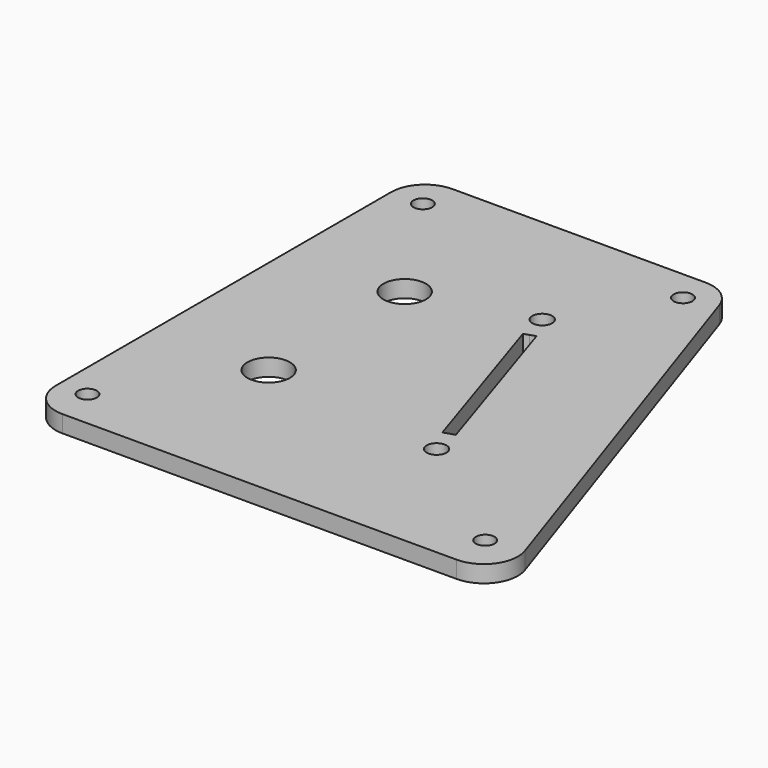
from build123d import *

# Parameters (mm, degrees)
PAD004_DEPTH    = 3
FILLET016_R     = 6
SKETCH144_R     = 3.75
POCKET031_DEPTH = 5
SKETCH145_R     = 1.75
POCKET058_DEPTH = 3
SKETCH191_R     = 1.65
POCKET060_DEPTH = 3


with BuildPart() as part:
    # Sketch143 → Pad004 (new body)
    with BuildSketch(Plane.XY.offset(45)):
        Polygon((282.000003, 258), (337, 258), (365.924584, 172), (282.000003, 172), align=None)
    extrude(amount=PAD004_DEPTH)

    # Fillet016
    fillet016_edges = [part.edges().sort_by_distance(p)[0] for p in [
        (365.924584, 172, 46.5),
        (282.000003, 172, 46.5),
        (282.000003, 258, 46.5),
        (337, 258, 46.5),
    ]]
    fillet(fillet016_edges, radius=FILLET016_R)

    # Sketch144 (on Face5 of Fillet016) → Pocket031 (cut)
    with BuildSketch(Plane.XY.offset(48)):
        with Locations((302, 230)):
            Circle(SKETCH144_R)
        with Locations((302.000005, 200.000003)):
            Circle(SKETCH144_R)
    extrude(amount=-POCKET031_DEPTH, mode=Mode.SUBTRACT)

    # Sketch145 (on Face5 of Pocket031) → Pocket058 (cut)
    with BuildSketch(Plane.XY.offset(48)):
        with Locations((322.023093, 235.313475)):
            Circle(SKETCH145_R)
        with Locations((334.779262, 196.053817)):
            Circle(SKETCH145_R)
        Polygon((333.263016, 200.720368), (334.214123, 201.029229), (324.489542, 230.958564), (323.538485, 230.649553), (322.587428, 230.340537), (332.311908, 200.411506), align=None)
    extrude(amount=-POCKET058_DEPTH, mode=Mode.SUBTRACT)

    # Sketch191 (on Face5 of Pocket058) → Pocket060 (cut)
    with BuildSketch(Plane.XY.offset(48)):
        with Locations((286.999994, 178.789996)):
            Circle(SKETCH191_R)
        with Locations((287.600004, 252.000004)):
            Circle(SKETCH191_R)
        with Locations((333.100005, 252.500004)):
            Circle(SKETCH191_R)
        with Locations((357, 179)):
            Circle(SKETCH191_R)
    extrude(amount=-POCKET060_DEPTH, mode=Mode.SUBTRACT)


with BuildPart() as part_1:
    # Body015 placement: moved
    add(part.part.moved(Location((0, 0, -2.9))))


solid = part_1.part
